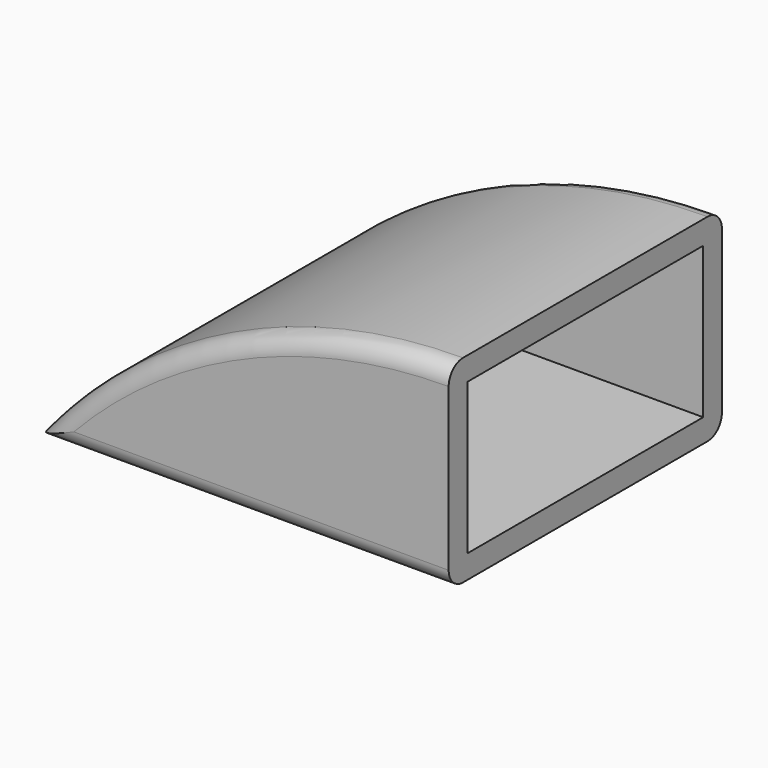
from build123d import *

# Parameters (mm, degrees)
F1_DEPTH = 38
F2_T     = -2.6
F3_R     = 2
F5_DEPTH = 6.8
F6_SIZE  = 1


with BuildPart() as f1:
    # F0 (on Front) → F1 (new body)
    with BuildSketch(Plane.XZ):
        with BuildLine():
            ThreePointArc((46.1, 22), (20.5597866101, 16.218128967), (0, 0))
            Line((0, 0), (46.1, 0))
            Line((46.1, 0), (46.1, 22))
        make_face()
    extrude(amount=F1_DEPTH)

    # F2
    f2_openings = [f1.faces().sort_by_distance(p)[0] for p in [
        (46.1, -19, 11),
    ]]
    offset(amount=F2_T, openings=f2_openings)

    # F3
    f3_edges = [f1.edges().sort_by_distance(p)[0] for p in [
        (20.559787, -38, 16.218129),
        (20.559787, 0, 16.218129),
        (23.05, 0, 0),
        (23.05, -38, 0),
    ]]
    fillet(f3_edges, radius=F3_R)

    # F4 (on face) → F5 (join)
    with BuildSketch(Plane(origin=(0, 0, 0), x_dir=(1, 0, 0), z_dir=(0, 0, -1))):
        with BuildLine():
            Line((7.95, 19), (12.45, 19))
            ThreePointArc((12.45, 19), (10.2, 21.25), (7.95, 19))
        make_face()
        with BuildLine():
            ThreePointArc((7.95, 19), (10.2, 16.75), (12.45, 19))
            Line((12.45, 19), (7.95, 19))
        make_face()
        with BuildLine():
            ThreePointArc((32.75, 19), (30.5, 21.25), (28.25, 19))
            Line((28.25, 19), (32.75, 19))
        make_face()
        with BuildLine():
            Line((32.75, 19), (28.25, 19))
            ThreePointArc((28.25, 19), (30.5, 16.75), (32.75, 19))
        make_face()
    extrude(amount=F5_DEPTH)

    # F6
    f6_edges = [f1.edges().sort_by_distance(p)[0] for p in [
        (12.45, -19, -6.8),
        (32.75, -19, -6.8),
    ]]
    chamfer(f6_edges, length=F6_SIZE)


solid = f1.part
